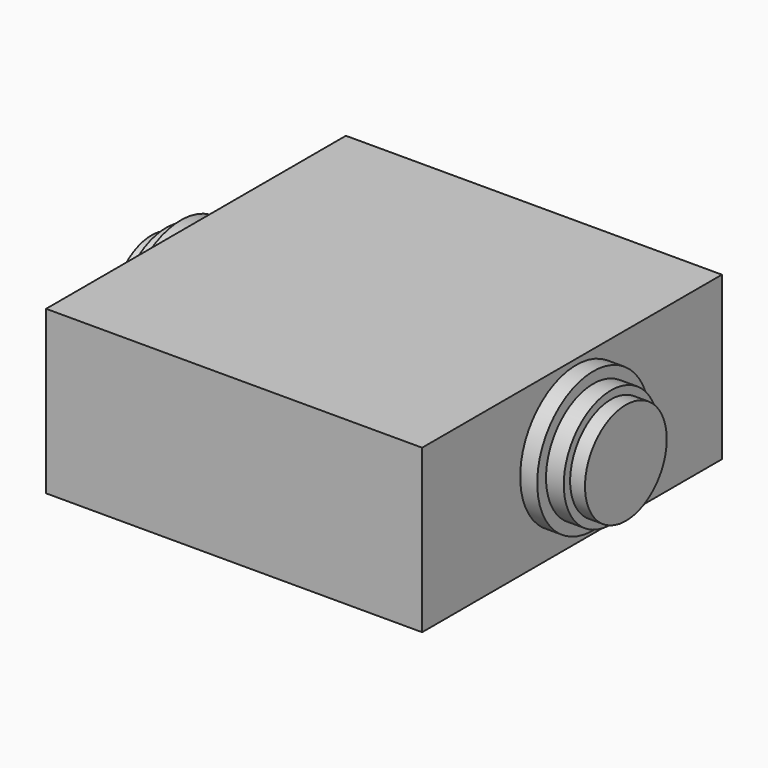
from build123d import *

# Parameters (mm, degrees)
F0_W      = 154.612802
F0_H      = 154.072925
F1_DEPTH  = 66.8
F2_R      = 28.811278
F3_DEPTH  = 7
F4_R      = 24.288847
F5_DEPTH  = 7.3
F6_R      = 21.010708
F7_DEPTH  = 6.1
F8_R      = 29.852046
F9_DEPTH  = 8
F10_R     = 25.172837
F11_DEPTH = 6
F12_R     = 20.49857
F13_DEPTH = 6


with BuildPart() as f1:
    # F0 (on Top) → F1 (new body)
    with BuildSketch(Plane.XY):
        with Locations((2.452422, -2.169334)):
            Rectangle(F0_W, F0_H)
    extrude(amount=F1_DEPTH)

    # F2 (on face) → F3 (join)
    with BuildSketch(Plane.YZ.offset(79.758823)):
        with Locations((0, 35.756472)):
            Circle(F2_R)
    extrude(amount=F3_DEPTH)

    # F4 (on face) → F5 (join)
    with BuildSketch(Plane.YZ.offset(86.758823)):
        with Locations((0, 35.756472)):
            Circle(F4_R)
    extrude(amount=F5_DEPTH)

    # F6 (on face) → F7 (join)
    with BuildSketch(Plane.YZ.offset(94.058823)):
        with Locations((0, 35.756472)):
            Circle(F6_R)
    extrude(amount=F7_DEPTH)

    # F8 (on face) → F9 (join)
    with BuildSketch(Plane(origin=(-74.853979, 0, 0), x_dir=(0, -1, 0), z_dir=(-1, 0, 0))):
        with Locations((0, 34.220316)):
            Circle(F8_R)
    extrude(amount=F9_DEPTH)

    # F10 (on face) → F11 (join)
    with BuildSketch(Plane(origin=(-82.853979, 0, 0), x_dir=(0, -1, 0), z_dir=(-1, 0, 0))):
        with Locations((0, 34.220316)):
            Circle(F10_R)
    extrude(amount=F11_DEPTH)

    # F12 (on face) → F13 (join)
    with BuildSketch(Plane(origin=(-88.853979, 0, 0), x_dir=(0, -1, 0), z_dir=(-1, 0, 0))):
        with Locations((0, 34.220316)):
            Circle(F12_R)
    extrude(amount=F13_DEPTH)


solid = f1.part
